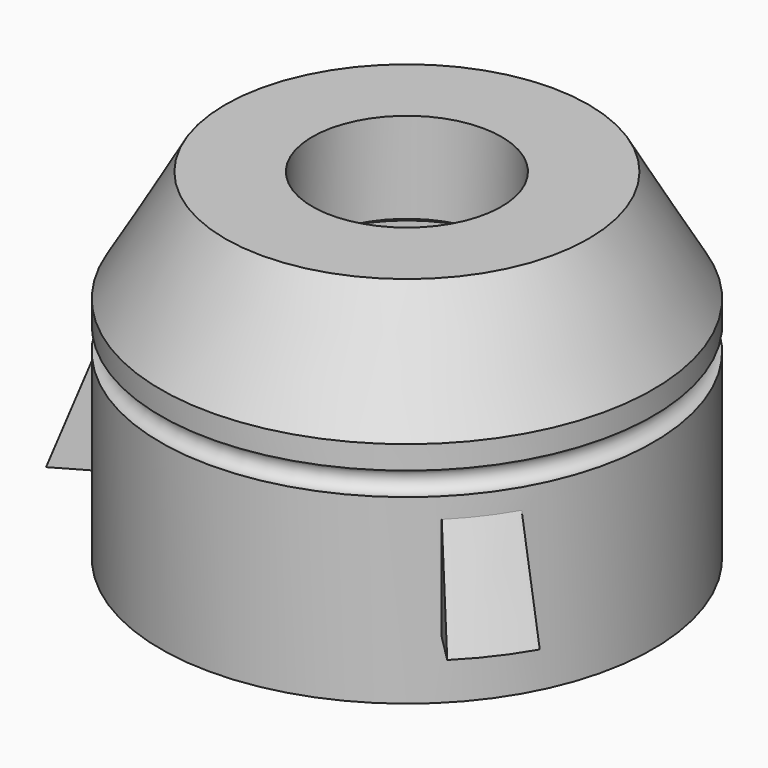
from build123d import *

# Parameters (mm, degrees)
REVOLUTION012_ANGLE = -15
REVOLUTION013_ANGLE = -15
REVOLUTION014_ANGLE = -15
POCKET_DEPTH        = 5
POCKET_DEPTH_BACK   = 3.2
SKETCH139_R         = 5
POCKET046_DEPTH     = 12


with BuildPart() as part:
    # Sketch031 → Revolution010 (revolve)
    with BuildSketch(Plane.YZ):
        with BuildLine():
            Line((14.02, -8), (14.02, -18.5))
            Line((14.02, -18.5), (18.5, -26.259588))
            Line((18.5, -26.259588), (19, -26.259588))
            Line((19, -12.225613), (19, -26.259588))
            ThreePointArc((19, -10.425613), (18.1, -11.325613), (19, -12.225613))
            Line((19, -8.625613), (19, -10.425613))
            Line((19, -8.625613), (14.02, 0))
            Line((14.02, 0), (7.3, 0))
            Line((7.3, 0), (7.3, -7))
            Line((7.3, -7), (9, -7))
            Line((9, -7), (9, -8))
            Line((9, -8), (14.02, -8))
        make_face()
    revolve(axis=Axis((0, 0, 0), (0, 0, 1)))

    # Sketch036 → Revolution012 (revolve)
    with BuildSketch(Plane.YZ):
        Polygon((19, -13.8), (19, -21.8), (22, -21.8), align=None)
    revolve(axis=Axis((0, 0, 0), (0, 0, 1)), revolution_arc=REVOLUTION012_ANGLE)

    # Sketch037 (on DatumPlane) → Revolution013 (revolve)
    with BuildSketch(Plane(origin=(0, 0, 0), x_dir=(-0.866025, -0.5, 0), z_dir=(-0.5, 0.866025, 0))):
        Polygon((19, -13.8), (19, -21.8), (22, -21.8), align=None)
    revolve(axis=Axis((0, 0, 0), (0, 0, 1)), revolution_arc=REVOLUTION013_ANGLE)

    # Sketch038 (on DatumPlane) → Revolution014 (revolve)
    with BuildSketch(Plane(origin=(0, 0, 0), x_dir=(0.866025, -0.5, 0), z_dir=(-0.5, -0.866025, 0))):
        Polygon((19, -13.8), (19, -21.8), (22, -21.8), align=None)
    revolve(axis=Axis((0, 0, 0), (0, 0, 1)), revolution_arc=REVOLUTION014_ANGLE)

    # Sketch062 (on Face24 of Revolution014) → Pocket (cut, two sides)
    with BuildSketch(Plane.YX.offset(7)) as pocket_sk:
        Polygon((7.8, 0), (7.8, 1.5), (13.1, 1.5), (13.1, -1.5), (7.8, -1.5), align=None)
    extrude(amount=POCKET_DEPTH, mode=Mode.SUBTRACT)
    extrude(pocket_sk.sketch, amount=-POCKET_DEPTH_BACK, mode=Mode.SUBTRACT)

    # Sketch139 → Pocket046 (cut)
    with BuildSketch(Plane.XY):
        with Locations((-22.5, 0)):
            Circle(SKETCH139_R)
    extrude(amount=-POCKET046_DEPTH, mode=Mode.SUBTRACT)


with BuildPart() as part_1:
    # Body008 placement: moved
    add(part.part.moved(Location((0, 0, 40))))


solid = part_1.part
